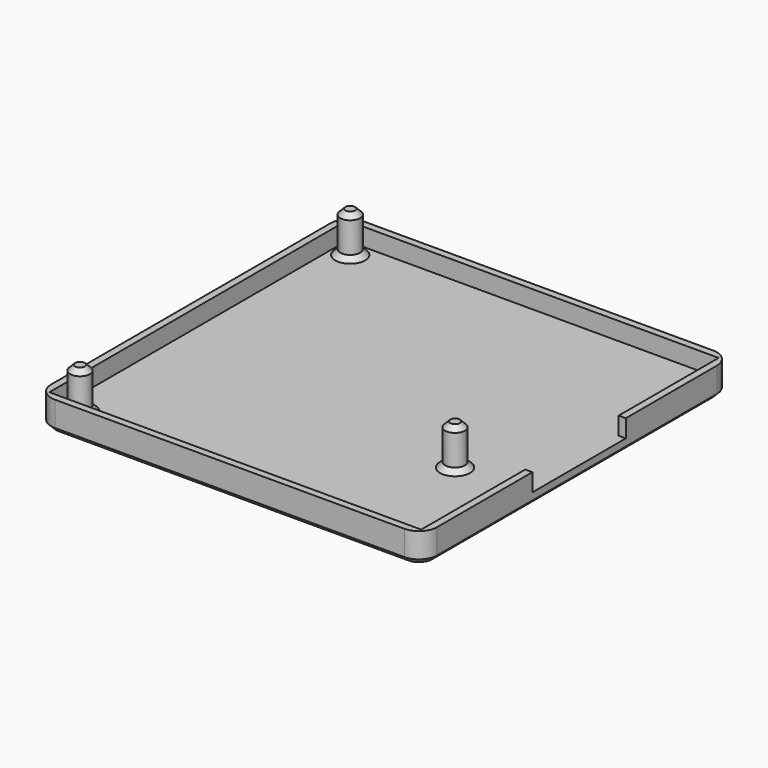
from build123d import *

# Parameters (mm, degrees)
F0_R     = 0.975
F0_W     = 36.6
F0_H     = 0.7
F0_W_2   = 0.7
F0_H_2   = 36.6
F0_H_3   = 12.8
F0_H_4   = 12.3
F0_H_5   = 11.5
F1_DEPTH = 1.2
F2_DEPTH = 1.75
F3_DEPTH = 4
F4_R     = 1.8
F5_SIZE  = 0.5


with BuildPart() as f1:
    # F0 (on Top) → F1 (new body)
    with BuildSketch(Plane.XY):
        Polygon((18.3, 6), (18.3, 18.3), (-18.3, 18.3), (-18.3, -18.3), (18.3, -18.3), (18.3, -5.5), align=None)
        with Locations((-16.625, -16.625)):
            Circle(F0_R, mode=Mode.SUBTRACT)
        with Locations((11.775, -5.975)):
            Circle(F0_R, mode=Mode.SUBTRACT)
        with Locations((-16.625, 16.625)):
            Circle(F0_R, mode=Mode.SUBTRACT)
        with Locations((0, 18.65)):
            Rectangle(F0_W, F0_H)
        with Locations((0, -18.65)):
            Rectangle(F0_W, F0_H)
        with Locations((-18.65, 0)):
            Rectangle(F0_W_2, F0_H_2)
        with Locations((18.65, -11.9)):
            Rectangle(F0_W_2, F0_H_3)
        with Locations((18.65, 12.15)):
            Rectangle(F0_W_2, F0_H_4)
        with Locations((18.65, 0.25)):
            Rectangle(F0_W_2, F0_H_5)
        with Locations((11.775, -5.975)):
            Circle(F0_R)
        with Locations((-16.625, -16.625)):
            Circle(F0_R)
        with Locations((-16.625, 16.625)):
            Circle(F0_R)
        with Locations((18.65, 18.65)):
            Rectangle(F0_W_2, F0_H)
        with Locations((-18.65, 18.65)):
            Rectangle(F0_W_2, F0_H)
        with Locations((18.65, -18.65)):
            Rectangle(F0_W_2, F0_H)
        with Locations((-18.65, -18.65)):
            Rectangle(F0_W_2, F0_H)
    extrude(amount=-F1_DEPTH)

    # F0 (on Top) → F2 (join)
    with BuildSketch(Plane.XY):
        with Locations((0, 18.65)):
            Rectangle(F0_W, F0_H)
        with Locations((-18.65, 18.65)):
            Rectangle(F0_W_2, F0_H)
        with Locations((18.65, 18.65)):
            Rectangle(F0_W_2, F0_H)
        with Locations((18.65, 12.15)):
            Rectangle(F0_W_2, F0_H_4)
        with Locations((18.65, -11.9)):
            Rectangle(F0_W_2, F0_H_3)
        with Locations((18.65, -18.65)):
            Rectangle(F0_W_2, F0_H)
        with Locations((0, -18.65)):
            Rectangle(F0_W, F0_H)
        with Locations((-18.65, -18.65)):
            Rectangle(F0_W_2, F0_H)
        with Locations((-18.65, 0)):
            Rectangle(F0_W_2, F0_H_2)
    extrude(amount=F2_DEPTH)

    # F0 (on Top) → F3 (join)
    with BuildSketch(Plane.XY):
        with Locations((-16.625, 16.625)):
            Circle(F0_R)
        with Locations((-16.625, -16.625)):
            Circle(F0_R)
        with Locations((11.775, -5.975)):
            Circle(F0_R)
    extrude(amount=F3_DEPTH)

    # F4
    f4_edges = [f1.edges().sort_by_distance(p)[0] for p in [
        (-19, 19, 0.275),
        (19, 19, 0.275),
        (-19, -19, 0.275),
        (19, -19, 0.275),
    ]]
    fillet(f4_edges, radius=F4_R)

    # F5
    f5_edges = [f1.edges().sort_by_distance(p)[0] for p in [
        (0, -19, -1.2),
        (10.8, -5.975, 4),
        (-17.6, 16.625, 4),
        (-17.6, -16.625, 4),
        (-17.6, 16.625, 0),
        (10.8, -5.975, 0),
        (-17.6, -16.625, 0),
    ]]
    chamfer(f5_edges, length=F5_SIZE)


solid = f1.part
